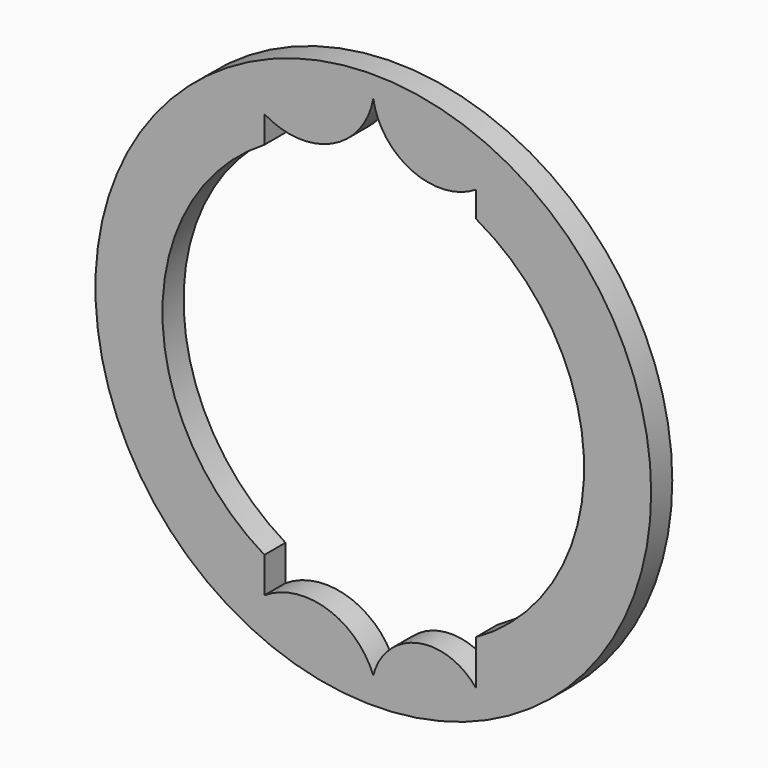
from build123d import *

# Parameters (mm, degrees)
F0_R     = 192.393498
F1_DEPTH = 18.29249


with BuildPart() as f1:
    # F0 (on Front) → F1 (new body)
    with BuildSketch(Plane.XZ):
        Circle(F0_R)
        with BuildLine():
            ThreePointArc((-75.423603, -124.989932), (-145.983571, 0), (-75.423603, 124.989932))
            Line((-75.423603, 124.989932), (-75.423603, 143.759063))
            ThreePointArc((-75.423603, 143.759063), (-28.813946, 140.830175), (0, 177.583337))
            ThreePointArc((0, 177.583337), (26.867171, 142.388247), (71.053845, 145.230274))
            Line((71.053845, 145.230274), (71.053845, 127.52472))
            ThreePointArc((71.053845, 127.52472), (145.983571, 0), (71.053845, -127.52472))
            Line((71.053845, -127.52472), (71.053845, -150.177163))
            Line((71.053845, -150.177163), (71.053845, -158.453529))
            ThreePointArc((71.053845, -158.453529), (30.748142, -144.186111), (0, -173.895717))
            ThreePointArc((0, -173.895717), (-31.937801, -143.816001), (-75.423603, -149.629557))
            Line((-75.423603, -149.629557), (-75.423603, -124.989932))
        make_face(mode=Mode.SUBTRACT)
    extrude(amount=F1_DEPTH)


solid = f1.part
